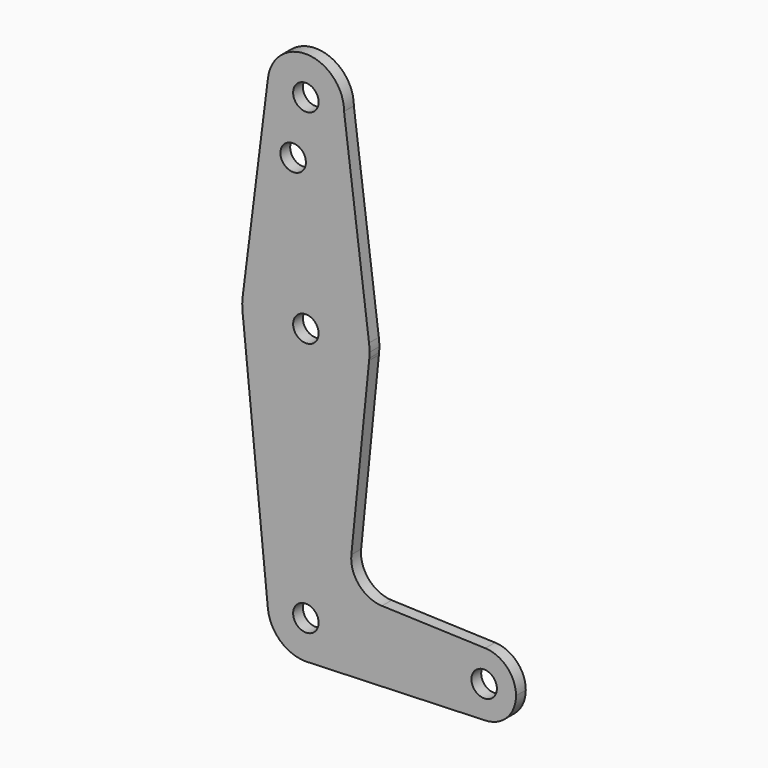
from build123d import *

# Parameters (mm, degrees)
F0_R     = 3.175
F1_DEPTH = 3.048


with BuildPart() as f1:
    # F0 (on Front) → F1 (new body)
    with BuildSketch(Plane.XZ):
        with BuildLine():
            ThreePointArc((9.53185, 114.284983), (9.531867, 114.295083), (9.531872, 114.305183))
            ThreePointArc((9.531872, 114.305183), (0.646178, 123.808704), (-9.432309, 115.580911))
            Line((-9.432309, 115.580911), (-9.453749, 115.410753))
            ThreePointArc((-9.453749, 115.410753), (-0.556932, 104.796884), (9.53185, 114.284983))
        make_face()
        with Locations((0.006872, 114.305183)):
            Circle(F0_R, mode=Mode.SUBTRACT)
        with BuildLine():
            Line((-9.453749, 115.410753), (-9.432309, 115.580911))
            ThreePointArc((-9.432309, 115.580911), (-9.443412, 115.49588), (-9.453749, 115.410753))
        make_face()
        with BuildLine():
            Line((15.754224, 65.514298), (9.53185, 114.284983))
            ThreePointArc((9.53185, 114.284983), (-0.556932, 104.796884), (-9.453749, 115.410753))
            Line((-9.453749, 115.410753), (-15.743601, 65.489679))
            ThreePointArc((-15.743601, 65.489679), (-0.005536, 79.380178), (15.754224, 65.514298))
        make_face()
        with Locations((-3.168128, 100.030383)):
            Circle(F0_R, mode=Mode.SUBTRACT)
        with BuildLine():
            ThreePointArc((15.881872, 63.505183), (15.849928, 64.511766), (15.754224, 65.514298))
            ThreePointArc((15.754224, 65.514298), (-0.005536, 79.380178), (-15.743601, 65.489679))
            ThreePointArc((-15.743601, 65.489679), (-15.865579, 63.220733), (-15.662382, 60.957614))
            ThreePointArc((-15.662382, 60.957614), (0.360572, 47.634124), (15.774062, 61.658203))
            Line((15.774062, 61.658203), (15.826353, 62.178672))
            ThreePointArc((15.826353, 62.178672), (15.867986, 62.841347), (15.881872, 63.505183))
        make_face()
        with Locations((0.006872, 63.505183)):
            Circle(F0_R, mode=Mode.SUBTRACT)
        with BuildLine():
            ThreePointArc((15.774062, 61.658203), (0.360572, 47.634124), (-15.662382, 60.957614))
            Line((-15.662382, 60.957614), (-9.470835, -0.942818))
            ThreePointArc((-9.470835, -0.942818), (-0.467718, 9.518352), (9.531872, 0.005183))
            ThreePointArc((9.531872, 0.005183), (6.979734, -6.48364), (0.690965, -9.495219))
            Line((0.690965, -9.495219), (44.739277, -7.927292))
            ThreePointArc((44.739277, -7.927292), (36.519372, 0.005183), (44.739277, 7.937658))
            Line((44.739277, 7.937658), (18.974563, 8.854911))
            ThreePointArc((18.974563, 8.854911), (13.267529, 11.572566), (11.347044, 17.594828))
            Line((11.347044, 17.594828), (15.774062, 61.658203))
        make_face()
        with BuildLine():
            ThreePointArc((15.774062, 61.658203), (15.802352, 61.918222), (15.826353, 62.178672))
            Line((15.826353, 62.178672), (15.774062, 61.658203))
        make_face()
        with BuildLine():
            ThreePointArc((9.531872, 0.005183), (-0.467718, 9.518352), (-9.470835, -0.942818))
            ThreePointArc((-9.470835, -0.942818), (-6.386916, -7.054923), (0, -9.519814))
            Line((0, -9.519814), (0.690965, -9.495219))
            ThreePointArc((0.690965, -9.495219), (6.979734, -6.48364), (9.531872, 0.005183))
        make_face()
        with Locations((0.006872, 0.005183)):
            Circle(F0_R, mode=Mode.SUBTRACT)
        with BuildLine():
            Line((0.690965, -9.495219), (0, -9.519814))
            ThreePointArc((0, -9.519814), (0.345706, -9.513788), (0.690965, -9.495219))
        make_face()
        with BuildLine():
            ThreePointArc((52.394372, 0.005183), (50.168505, 5.517094), (44.739277, 7.937658))
            ThreePointArc((44.739277, 7.937658), (36.519372, 0.005183), (44.739277, -7.927292))
            ThreePointArc((44.739277, -7.927292), (50.168505, -5.506727), (52.394372, 0.005183))
        make_face()
        with Locations((44.456872, 0.005183)):
            Circle(F0_R, mode=Mode.SUBTRACT)
    extrude(amount=F1_DEPTH)


solid = f1.part
